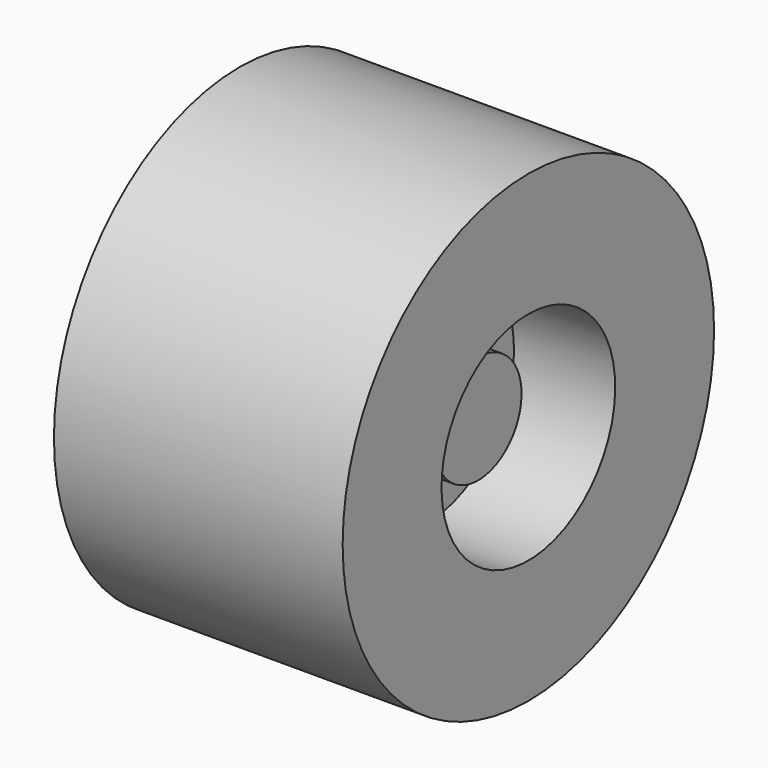
from build123d import *

# Parameters (mm, degrees)
F0_W   = 14.3090859056
F0_H   = 15.2380950749
F0_W_2 = 13.3393928409


with BuildPart() as f1:
    # F0 (on Front) → F1 (revolve)
    with BuildSketch(Plane.XZ):
        with Locations((19.2491300404, 7.6190475374)):
            Rectangle(F0_W, F0_H)
        Polygon((12.0945870876, 30.4761901498), (-13.1280571222, 30.4761901498), (-13.1280571222, 15.2380950749), (-13.1280571222, 0), (12.0945870876, 0), (12.0945870876, 15.2380950749), align=None)
        with Locations((-19.7977535427, 7.6190475374)):
            Rectangle(F0_W_2, F0_H)
        Polygon((40.5081957579, 65.1682019234), (-40.5465885997, 65.1682019234), (-40.5465885997, 30.4761901498), (-13.1280571222, 30.4761901498), (12.0945870876, 30.4761901498), (40.5081957579, 30.4761901498), align=None)
    revolve(axis=Axis((-0.5167350173, 0, 0), (1, 0, 0)))


solid = f1.part
